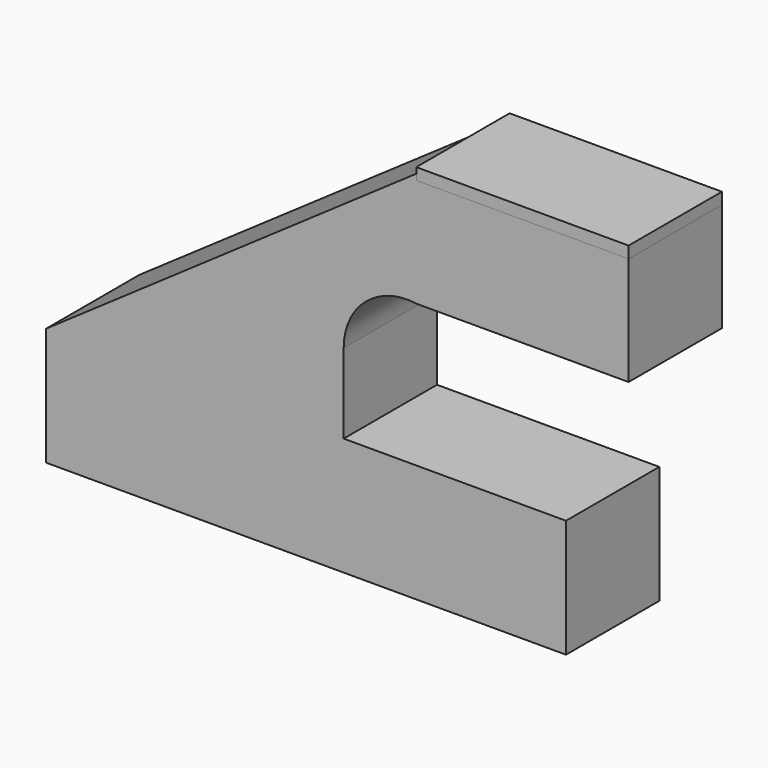
from build123d import *

# Parameters (mm, degrees)
F0_W     = 46.228003
F0_H     = 24.891995
F1_DEPTH = 12.7
F2_W     = 46.228003
F2_H     = 25.4
F3_DEPTH = 1.27


with BuildPart() as f1:
    # F0 (on Front) → F1 (new body, symmetric)
    with BuildSketch(Plane.XZ):
        Polygon((8.198556, 12.841111), (-56.599669, 12.841111), (-56.599669, -12.841111), (56.599669, -12.841111), (56.599669, 12.841111), align=None)
        with BuildLine():
            Line((24.003001, 68.749331), (-56.599669, 12.841111))
            Line((-56.599669, 12.841111), (8.198556, 12.841111))
            Line((8.198556, 12.841111), (8.198556, 30.226002))
            ThreePointArc((8.198556, 30.226002), (12.978723, 40.661443), (24.003001, 43.857336))
            Line((24.003001, 43.857336), (24.003001, 68.749331))
        make_face()
        with Locations((47.117002, 56.303333)):
            Rectangle(F0_W, F0_H)
    extrude(amount=F1_DEPTH, both=True)


with BuildPart() as f3:
    # F2 (on face) → F3 (new body, symmetric)
    with BuildSketch(Plane.XY.offset(68.749331)):
        with Locations((47.117002, 0)):
            Rectangle(F2_W, F2_H)
    extrude(amount=F3_DEPTH, both=True)


solid = Compound([f1.part, f3.part])
